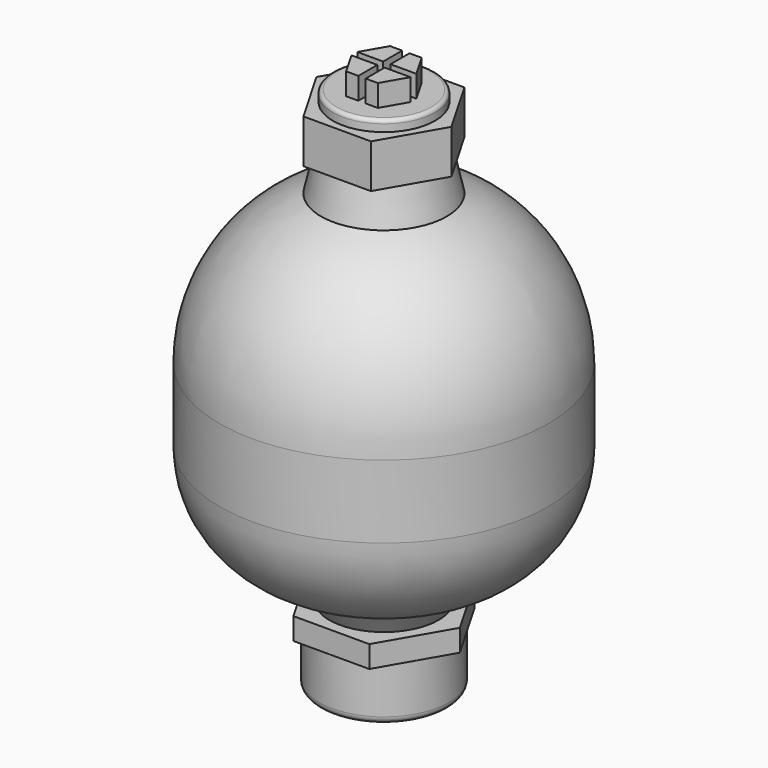
from build123d import *

# Parameters (mm, degrees)
F2_R      = 15
F3_DEPTH  = 12
F4_R      = 14
F5_DEPTH  = 3
F6_R      = 1
F8_DEPTH  = 6
F9_R      = 15
F10_DEPTH = 6
F11_R     = 17.75
F12_DEPTH = 15
F13_R     = 2


with BuildPart() as f1:
    # F0 (on Front) → F1 (revolve)
    with BuildSketch(Plane.XZ):
        with BuildLine():
            Line((15, 39.5324291697), (0, 39.5324291697))
            Line((0, 39.5324291697), (0, -68.4675708303))
            Line((0, -68.4675708303), (15, -68.4675708303))
            Line((15, -68.4675708303), (20, -60.9842560568))
            ThreePointArc((20, -60.9842560568), (37.9128784748, -50.7687738723), (45, -31.4038571413))
            Line((45, -31.4038571413), (45, -11.4038571413))
            ThreePointArc((45, -11.4038571413), (37.4032174761, 13.3287561425), (17.2325892015, 29.5324291697))
            Line((17.2325892015, 29.5324291697), (15, 39.5324291697))
        make_face()
    revolve(axis=Axis((0, 0, -14.4675708303), (0, 0, -1)))

    # F2 (on face) → F3 (join)
    with BuildSketch(Plane.XY.offset(39.5324291697)):
        Polygon((9.237604307, -16), (18.4752086141, 0), (9.237604307, 16), (-9.237604307, 16), (-18.4752086141, 0), (-9.237604307, -16), align=None)
        Circle(F2_R, mode=Mode.SUBTRACT)
        Polygon((9.237604307, -16), (18.4752086141, 0), (9.237604307, 16), (-9.237604307, 16), (-18.4752086141, 0), (-9.237604307, -16), align=None)
    extrude(amount=F3_DEPTH)

    # F4 (on face) → F5 (join)
    with BuildSketch(Plane.XY.offset(51.5324291697)):
        Circle(F4_R)
    extrude(amount=F5_DEPTH)

    # F6
    f6_edges = [f1.edges().sort_by_distance(p)[0] for p in [
        (-14, 0, 54.532429),
    ]]
    fillet(f6_edges, radius=F6_R)

    # F7 (on face) → F8 (join)
    with BuildSketch(Plane.XY.offset(54.5324291697)):
        Polygon((4.3301270189, -7.5), (8.0829037687, -1), (1, -1), (1, -7.5), align=None)
        Polygon((-1, -7.5), (-1, -1), (-8.0829037687, -1), (-4.3301270189, -7.5), align=None)
        Polygon((1, 1), (8.0829037687, 1), (4.3301270189, 7.5), (1, 7.5), align=None)
        Polygon((-8.0829037687, 1), (-1, 1), (-1, 7.5), (-4.3301270189, 7.5), align=None)
    extrude(amount=F8_DEPTH)

    # F9 (on face) → F10 (join)
    with BuildSketch(Plane(origin=(0, 0, -68.4675708303), x_dir=(1, 0, 0), z_dir=(0, 0, -1))):
        Polygon((10.3923048454, -18), (20.7846096908, 0), (10.3923048454, 18), (-10.3923048454, 18), (-20.7846096908, 0), (-10.3923048454, -18), align=None)
        Circle(F9_R, mode=Mode.SUBTRACT)
        Polygon((10.3923048454, -18), (20.7846096908, 0), (10.3923048454, 18), (-10.3923048454, 18), (-20.7846096908, 0), (-10.3923048454, -18), align=None)
    extrude(amount=F10_DEPTH)

    # F11 (on face) → F12 (join)
    with BuildSketch(Plane(origin=(0, 0, -74.4675708303), x_dir=(1, 0, 0), z_dir=(0, 0, -1))):
        Circle(F11_R)
    extrude(amount=F12_DEPTH)

    # F13
    f13_edges = [f1.edges().sort_by_distance(p)[0] for p in [
        (-17.75, 0, -89.467571),
    ]]
    fillet(f13_edges, radius=F13_R)


solid = f1.part
